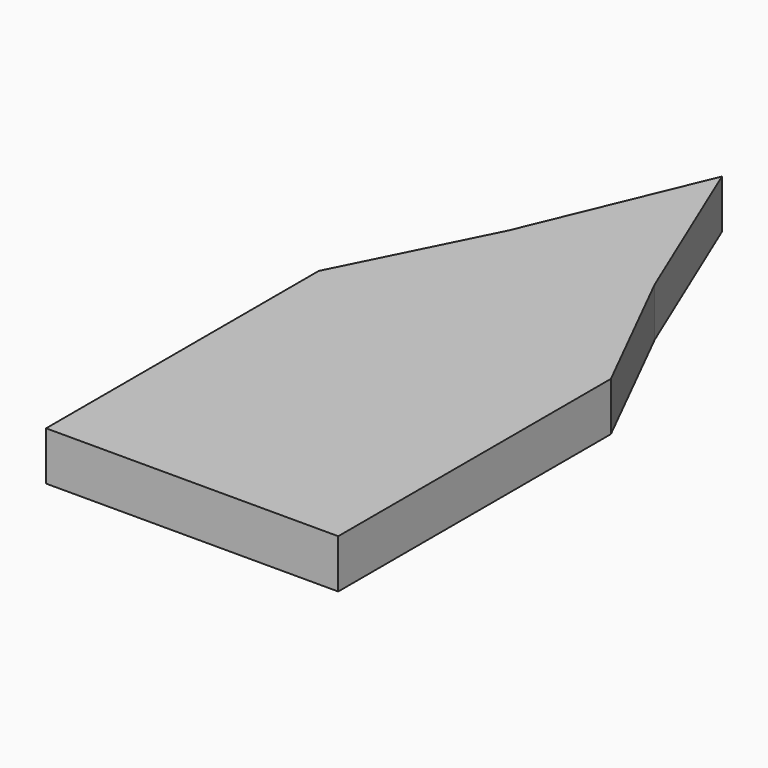
from build123d import *

# Parameters (mm, degrees)
F0_W     = 60
F0_H     = 70
F1_DEPTH = 10


with BuildPart() as f1:
    # F0 (on Top) → F1 (new body)
    with BuildSketch(Plane.XY):
        Polygon((-10.705919, 83.133888), (-25.705919, 47.133888), (4.294081, 47.133888), align=None)
        Polygon((-25.705919, 47.133888), (-40.705919, 17.133888), (19.294081, 17.133888), (4.294081, 47.133888), align=None)
        with Locations((-10.705919, -17.866112)):
            Rectangle(F0_W, F0_H)
    extrude(amount=F1_DEPTH)


solid = f1.part
